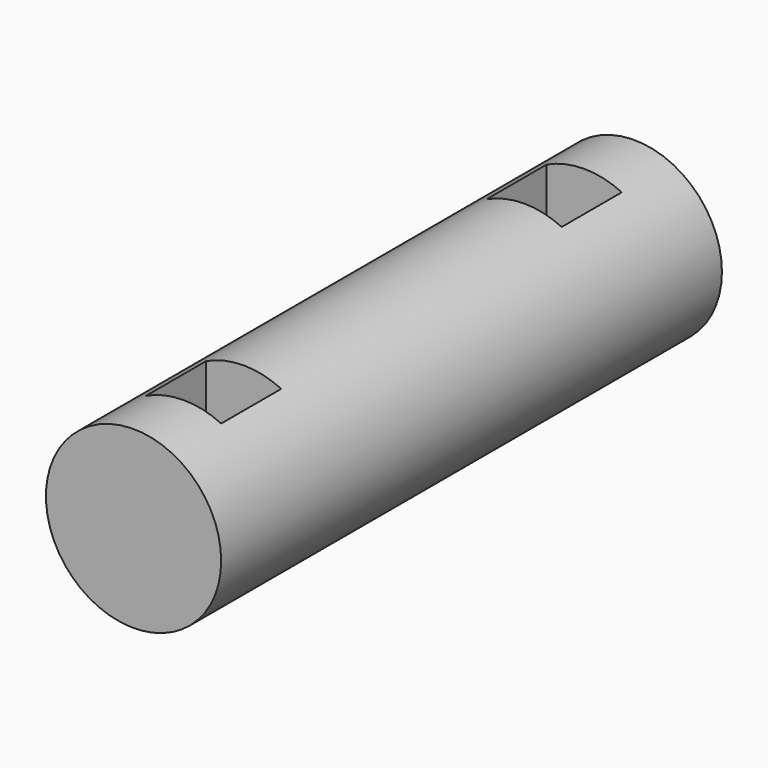
from build123d import *

# Parameters (mm, degrees)
BOX012_W          = 3
BOX012_H          = 3
BOX012_DEPTH      = 8
BOX011_W          = 3
BOX011_H          = 3
BOX011_DEPTH      = 8
CYLINDER008_R     = 3.5
CYLINDER008_DEPTH = 25


with BuildPart() as pivotrodbodypinhole2:
    # Box012 → Box012 (new body)
    with BuildSketch(Plane(origin=(18, -10, 10), x_dir=(1, 0, 0), z_dir=(0, 0, 1))):
        with Locations((1.5, 1.5)):
            Rectangle(BOX012_W, BOX012_H)
    extrude(amount=BOX012_DEPTH)


with BuildPart() as pivotrodpinholesleft:
    # Box011 → Box011 (new body)
    with BuildSketch(Plane(origin=(18, 7, 10), x_dir=(1, 0, 0), z_dir=(0, 0, 1))):
        with Locations((1.5, 1.5)):
            Rectangle(BOX011_W, BOX011_H)
    extrude(amount=BOX011_DEPTH)

    # Fusion008: union PivotRodBodyPinhole2
    add(pivotrodbodypinhole2.part)


with BuildPart() as pivotrodleft:
    # Cylinder008 → Cylinder008 (new body)
    with BuildSketch(Plane(origin=(19.5, 12.5, 14), x_dir=(1, 0, 0), z_dir=(0, -1, 0))):
        Circle(CYLINDER008_R)
    extrude(amount=CYLINDER008_DEPTH)

    # Cut006: cut PivotRodPinholesLeft
    add(pivotrodpinholesleft.part, mode=Mode.SUBTRACT)


solid = pivotrodleft.part
